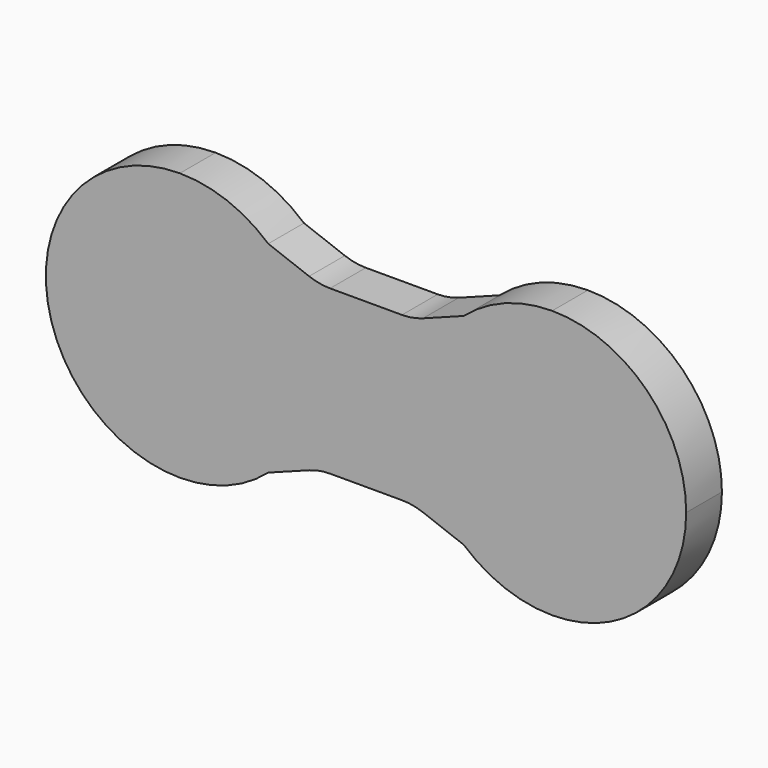
from build123d import *

# Parameters (mm, degrees)
F1_DEPTH = 19.05


with BuildPart() as f1:
    # F0 (on Front) → F1 (new body)
    with BuildSketch(Plane.XZ):
        with BuildLine():
            Line((20.027097595, 36.4074036121), (2.6105293283, 42.9636023111))
            ThreePointArc((2.6105293283, 42.9636023111), (16.9814393634, 23.5834144733), (22.0743066938, 0))
            ThreePointArc((22.0743066938, 0), (16.9814393634, -23.5834144733), (2.6105293283, -42.9636023111))
            Line((2.6105293283, -42.9636023111), (20.027097595, -36.4074036121))
            ThreePointArc((20.027097595, -36.4074036121), (24.4278254251, -35.189367606), (28.975523916, -34.7789341976))
            Line((28.975523916, -34.7789341976), (59.6230894717, -34.7789341976))
            ThreePointArc((59.6230894717, -34.7789341976), (64.1707879626, -35.189367606), (68.5715157927, -36.4074036121))
            Line((68.5715157927, -36.4074036121), (85.9880840594, -42.9636023111))
            ThreePointArc((85.9880840594, -42.9636023111), (66.5243066938, 0), (85.9880840594, 42.9636023111))
            Line((85.9880840594, 42.9636023111), (68.5715157927, 36.4074036121))
            ThreePointArc((68.5715157927, 36.4074036121), (64.1707879626, 35.189367606), (59.6230894717, 34.7789341976))
            Line((59.6230894717, 34.7789341976), (28.975523916, 34.7789341976))
            ThreePointArc((28.975523916, 34.7789341976), (24.4278254251, 35.189367606), (20.027097595, 36.4074036121))
        make_face()
        with BuildLine():
            ThreePointArc((2.6105293283, 42.9636023111), (-14.941734084, 53.4859438174), (-35.0756933062, 57.15))
            Line((-35.0756933062, 57.15), (2.6105293283, 42.9636023111))
        make_face()
        with BuildLine():
            Line((123.6743066938, 57.15), (85.9880840594, 42.9636023111))
            ThreePointArc((85.9880840594, 42.9636023111), (66.5243066938, 0), (85.9880840594, -42.9636023111))
            Line((85.9880840594, -42.9636023111), (123.6743066938, -57.15))
            ThreePointArc((123.6743066938, -57.15), (164.0854592386, -40.4111525448), (180.8243066938, 0))
            ThreePointArc((180.8243066938, 0), (164.0854592386, 40.4111525448), (123.6743066938, 57.15))
        make_face()
        with BuildLine():
            ThreePointArc((123.6743066938, 57.15), (103.5403474717, 53.4859438174), (85.9880840594, 42.9636023111))
            Line((85.9880840594, 42.9636023111), (123.6743066938, 57.15))
        make_face()
        with BuildLine():
            Line((2.6105293283, 42.9636023111), (-35.0756933062, 57.15))
            ThreePointArc((-35.0756933062, 57.15), (-92.2256933062, 0), (-35.0756933062, -57.15))
            Line((-35.0756933062, -57.15), (2.6105293283, -42.9636023111))
            ThreePointArc((2.6105293283, -42.9636023111), (16.9814393634, -23.5834144733), (22.0743066938, 0))
            ThreePointArc((22.0743066938, 0), (16.9814393634, 23.5834144733), (2.6105293283, 42.9636023111))
        make_face()
        with BuildLine():
            Line((2.6105293283, -42.9636023111), (-35.0756933062, -57.15))
            ThreePointArc((-35.0756933062, -57.15), (-14.941734084, -53.4859438174), (2.6105293283, -42.9636023111))
        make_face()
        with BuildLine():
            Line((123.6743066938, -57.15), (85.9880840594, -42.9636023111))
            ThreePointArc((85.9880840594, -42.9636023111), (103.5403474717, -53.4859438174), (123.6743066938, -57.15))
        make_face()
    extrude(amount=F1_DEPTH)


solid = f1.part
